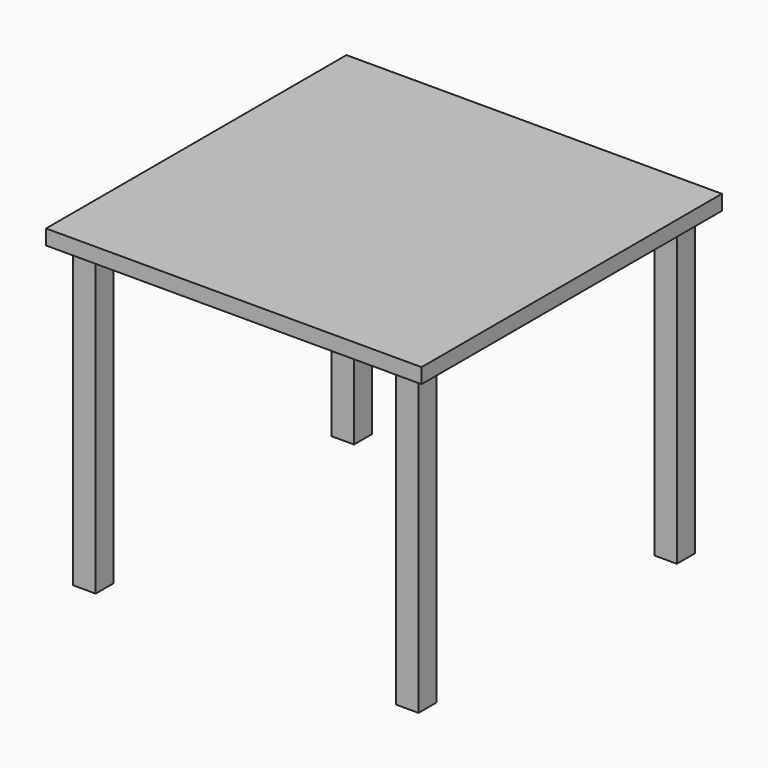
from build123d import *

# Parameters (mm, degrees)
BOX_W        = 100
BOX_H        = 100
BOX_DEPTH    = 4
BOX001_W     = 6
BOX001_H     = 6
BOX001_DEPTH = 80
BOX002_W     = 6
BOX002_H     = 6
BOX002_DEPTH = 80
BOX003_W     = 6
BOX003_H     = 6
BOX003_DEPTH = 80
BOX004_W     = 6
BOX004_H     = 6
BOX004_DEPTH = 80


with BuildPart() as cube:
    # Box → Box (new body)
    with BuildSketch(Plane.XY.offset(80)):
        with Locations((50, 50)):
            Rectangle(BOX_W, BOX_H)
    extrude(amount=BOX_DEPTH)


with BuildPart() as cube001:
    # Box001 → Box001 (new body)
    with BuildSketch(Plane(origin=(4, 4, 0), x_dir=(1, 0, 0), z_dir=(0, 0, 1))):
        with Locations((3, 3)):
            Rectangle(BOX001_W, BOX001_H)
    extrude(amount=BOX001_DEPTH)


with BuildPart() as cube002:
    # Box002 → Box002 (new body)
    with BuildSketch(Plane(origin=(90, 90, 0), x_dir=(1, 0, 0), z_dir=(0, 0, 1))):
        with Locations((3, 3)):
            Rectangle(BOX002_W, BOX002_H)
    extrude(amount=BOX002_DEPTH)


with BuildPart() as cube003:
    # Box003 → Box003 (new body)
    with BuildSketch(Plane(origin=(4, 90, 0), x_dir=(1, 0, 0), z_dir=(0, 0, 1))):
        with Locations((3, 3)):
            Rectangle(BOX003_W, BOX003_H)
    extrude(amount=BOX003_DEPTH)


with BuildPart() as cube004:
    # Box004 → Box004 (new body)
    with BuildSketch(Plane(origin=(90, 4, 0), x_dir=(1, 0, 0), z_dir=(0, 0, 1))):
        with Locations((3, 3)):
            Rectangle(BOX004_W, BOX004_H)
    extrude(amount=BOX004_DEPTH)


solid = Compound([cube.part, cube001.part, cube002.part, cube003.part, cube004.part])
